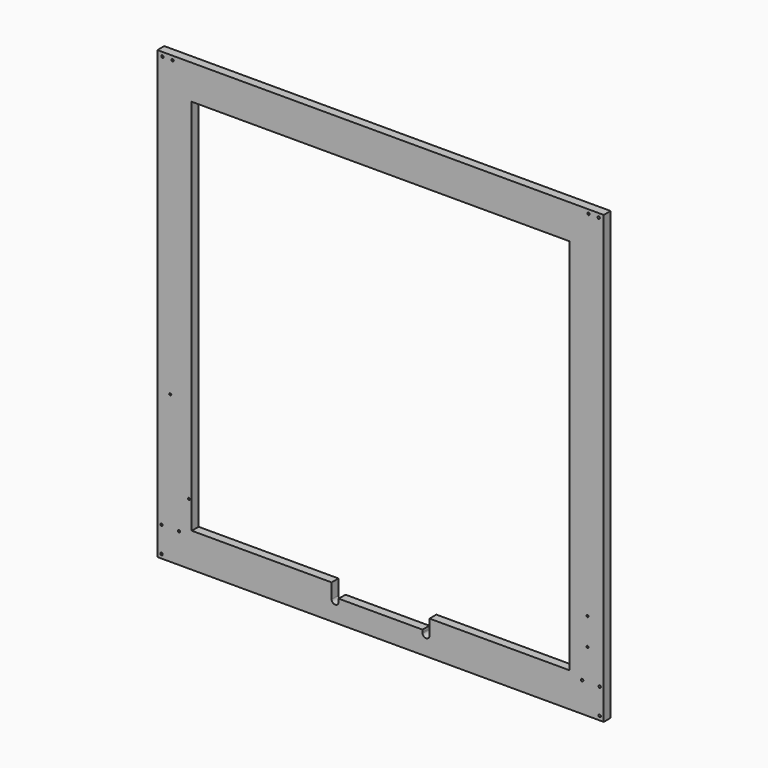
from build123d import *

# Parameters (mm, degrees)
F0_R     = 1.778
F0_R_2   = 1.5
F0_R_3   = 1.75
F0_W     = 19.9898
F0_H     = 24.9936
F1_DEPTH = 12.7


with BuildPart() as f1:
    # F0 (on Front) → F1 (new body)
    with BuildSketch(Plane.XZ):
        Polygon((330.2, 330.2), (-330.2, 330.2), (-330.2, -330.2), (-318.2112, -330.2), (-318.2112, -305.2064), (-298.2214, -305.2064), (-298.2214, -330.2), (298.2214, -330.2), (298.2214, -305.2064), (318.2112, -305.2064), (318.2112, -330.2), (330.2, -330.2), align=None)
        with Locations((-324.2, -324.2)):
            Circle(F0_R, mode=Mode.SUBTRACT)
        with Locations((-324.2, -286.2)):
            Circle(F0_R, mode=Mode.SUBTRACT)
        with Locations((-298.1904, -286.2)):
            Circle(F0_R, mode=Mode.SUBTRACT)
        with Locations((-283.4, -239.2)):
            Circle(F0_R_2, mode=Mode.SUBTRACT)
        with Locations((-311.2, -112.2)):
            Circle(F0_R_2, mode=Mode.SUBTRACT)
        with Locations((324.2056, -324.2056)):
            Circle(F0_R, mode=Mode.SUBTRACT)
        with Locations((298.196, -286.2072)):
            Circle(F0_R, mode=Mode.SUBTRACT)
        with Locations((324.2056, -286.2072)):
            Circle(F0_R, mode=Mode.SUBTRACT)
        with Locations((306.2, -240.2)):
            Circle(F0_R_2, mode=Mode.SUBTRACT)
        with Locations((306.2, -200.2)):
            Circle(F0_R_2, mode=Mode.SUBTRACT)
        with BuildLine():
            Line((-279.4, -279.4), (-279.4, 279.4))
            Line((-279.4, 279.4), (279.4, 279.4))
            Line((279.4, 279.4), (279.4, -279.4))
            Line((279.4, -279.4), (72.409265, -279.4))
            Line((72.409265, -279.4), (72.409265, -300.453268))
            ThreePointArc((72.409265, -300.453268), (68.192335, -306.608627), (62.087128, -302.319407))
            ThreePointArc((62.087128, -302.319407), (62.0141, -301.4472), (62.087128, -300.574993))
            Line((62.087128, -300.574993), (62.087128, -297.18))
            Line((62.087128, -297.18), (-62.062937, -297.18))
            Line((-62.062937, -297.18), (-62.062937, -300.567853))
            ThreePointArc((-62.062937, -300.567853), (-61.9887, -301.4472), (-62.062937, -302.326547))
            ThreePointArc((-62.062937, -302.326547), (-67.675037, -306.673708), (-72.4789, -301.4472))
            Line((-72.4789, -301.4472), (-72.4789, -279.4))
            Line((-72.4789, -279.4), (-279.4, -279.4))
        make_face(mode=Mode.SUBTRACT)
        with Locations((-322.7, 324.2)):
            Circle(F0_R_3, mode=Mode.SUBTRACT)
        with Locations((-307.7, 324.2)):
            Circle(F0_R_3, mode=Mode.SUBTRACT)
        with Locations((307.7, 324.2)):
            Circle(F0_R_3, mode=Mode.SUBTRACT)
        with Locations((322.7, 324.2)):
            Circle(F0_R_3, mode=Mode.SUBTRACT)
        with Locations((-308.2163, -317.7032)):
            Rectangle(F0_W, F0_H)
        with Locations((308.2163, -317.7032)):
            Rectangle(F0_W, F0_H)
    extrude(amount=F1_DEPTH)


solid = f1.part
